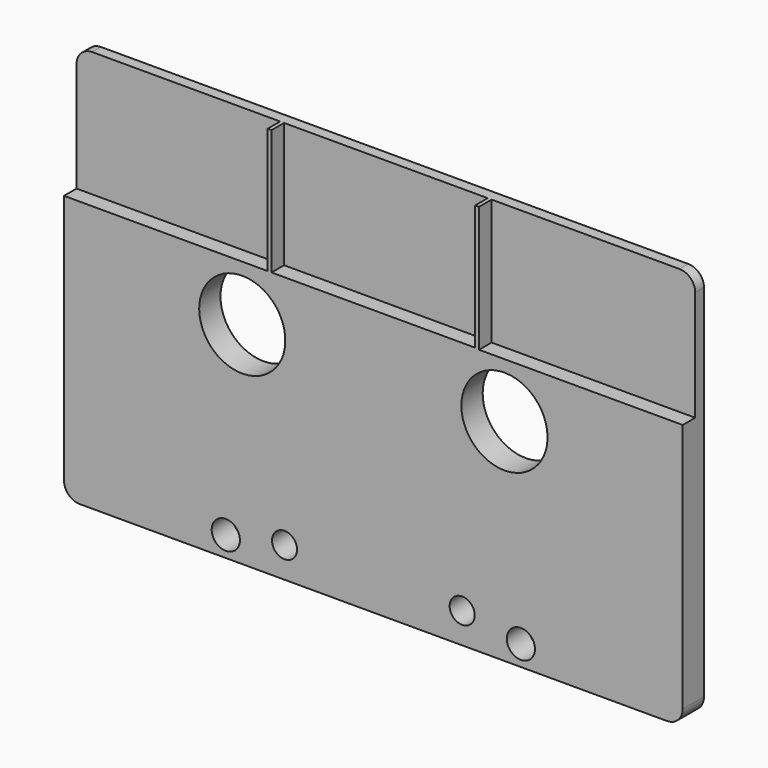
from build123d import *

# Parameters (mm, degrees)
F1_DEPTH = 4.318
F3_D     = 13.97
F4_W     = 33.02
F4_H     = 20.32
F4_H_2   = 20.409275
F5_DEPTH = 2.54
F8_D     = 4.572
F9_D     = 4.064


with BuildPart() as f1:
    # F0 (on Front) → F1 (new body)
    with BuildSketch(Plane.XZ):
        with BuildLine():
            Line((47.625, 0), (-47.625, 0))
            ThreePointArc((-47.625, 0), (-49.421051, -0.743949), (-50.165, -2.54))
            Line((-50.165, -2.54), (-50.165, -60.96))
            ThreePointArc((-50.165, -60.96), (-49.421051, -62.756051), (-47.625, -63.5))
            Line((-47.625, -63.5), (47.625, -63.5))
            ThreePointArc((47.625, -63.5), (49.421051, -62.756051), (50.165, -60.96))
            Line((50.165, -60.96), (50.165, -2.54))
            ThreePointArc((50.165, -2.54), (49.421051, -0.743949), (47.625, 0))
        make_face()
    extrude(amount=F1_DEPTH)

    # F3 (through all)
    with Locations(Plane.XZ.offset(4.318)):
        with Locations((-21.2598, -29.3116), (21.2598, -29.3116)):
            Hole(F3_D / 2)

    # F4 (on face) → F5 (cut)
    with BuildSketch(Plane.XZ.offset(4.318)):
        with Locations((0, -10.16)):
            Rectangle(F4_W, F4_H)
        with Locations((-33.655, -10.16)):
            Rectangle(F4_W, F4_H)
        with Locations((33.655, -10.204637)):
            Rectangle(F4_W, F4_H_2)
    extrude(amount=-F5_DEPTH, mode=Mode.SUBTRACT)

    # F8 (through all)
    with Locations(Plane(origin=(0, 0, 0), x_dir=(-1, 0, 0), z_dir=(0, 1, 0))):
        with Locations((-23.9268, -60.198), (23.9268, -60.198)):
            Hole(F8_D / 2)

    # F9 (through all)
    with Locations(Plane(origin=(0, 0, 0), x_dir=(-1, 0, 0), z_dir=(0, 1, 0))):
        with Locations((-14.4018, -58.547), (14.4018, -58.547)):
            Hole(F9_D / 2)


solid = f1.part
